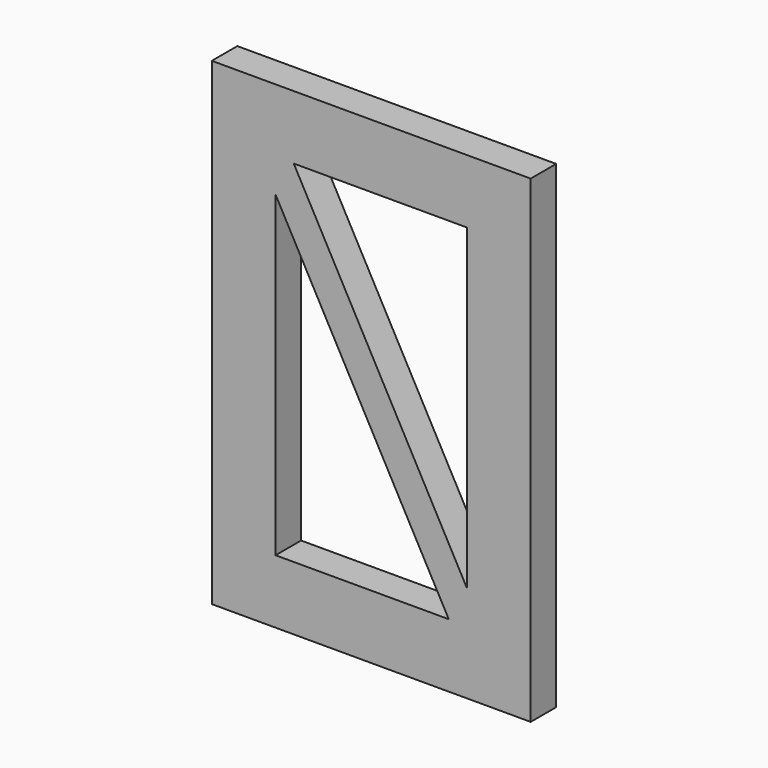
from build123d import *

# Parameters (mm, degrees)
F0_W     = 100
F0_H     = 150
F1_DEPTH = 10


with BuildPart() as f1:
    # F0 (on Front) → F1 (new body)
    with BuildSketch(Plane.XZ):
        Rectangle(F0_W, F0_H)
        Polygon((-30, -55), (-30, 44.558363), (24.304562, -55), align=None, mode=Mode.SUBTRACT)
        Polygon((-24.304562, 55), (30, 55), (30, -44.558363), align=None, mode=Mode.SUBTRACT)
    extrude(amount=F1_DEPTH)


solid = f1.part
